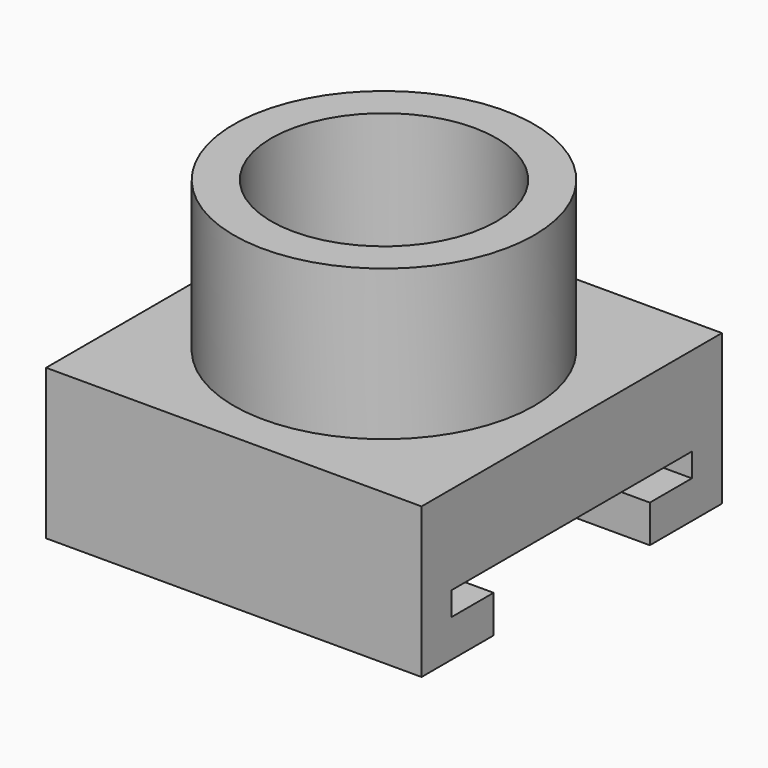
from build123d import *

# Parameters (mm, degrees)
F0_R     = 25.4
F1_DEPTH = 25.4
F2_W     = 63.5
F2_H     = 63.5
F3_DEPTH = 25.4
F5_DEPTH = 63.501
F7_D     = 38.1
F7_DEPTH = 38.1
F7_TIP   = 11.4463947925


with BuildPart() as f1:
    # F0 (on Top) → F1 (new body)
    with BuildSketch(Plane.XY):
        Circle(F0_R)
    extrude(amount=F1_DEPTH)

    # F2 (on face) → F3 (join)
    with BuildSketch(Plane.XY):
        Rectangle(F2_W, F2_H)
    extrude(amount=-F3_DEPTH)

    # F4 (on face) → F5 (cut, through all)
    with BuildSketch(Plane.YZ.offset(31.75)):
        Polygon((-25.4, -19.05), (-16.51, -19.05), (-16.51, -25.4), (0, -25.4), (16.51, -25.4), (16.51, -19.05), (25.4, -19.05), (25.4, -15.05), (0, -15.05), (-25.4, -15.05), align=None)
    extrude(amount=-F5_DEPTH, mode=Mode.SUBTRACT)

    # F7
    with Locations(Plane.XY.offset(25.4)):
        with Locations((0, 0)):
            Hole(F7_D / 2, depth=F7_DEPTH)
            with Locations((0, 0, -(F7_DEPTH + F7_TIP / 2))):  # 118° drill point
                Cone(0, F7_D / 2, F7_TIP, mode=Mode.SUBTRACT)


solid = f1.part
